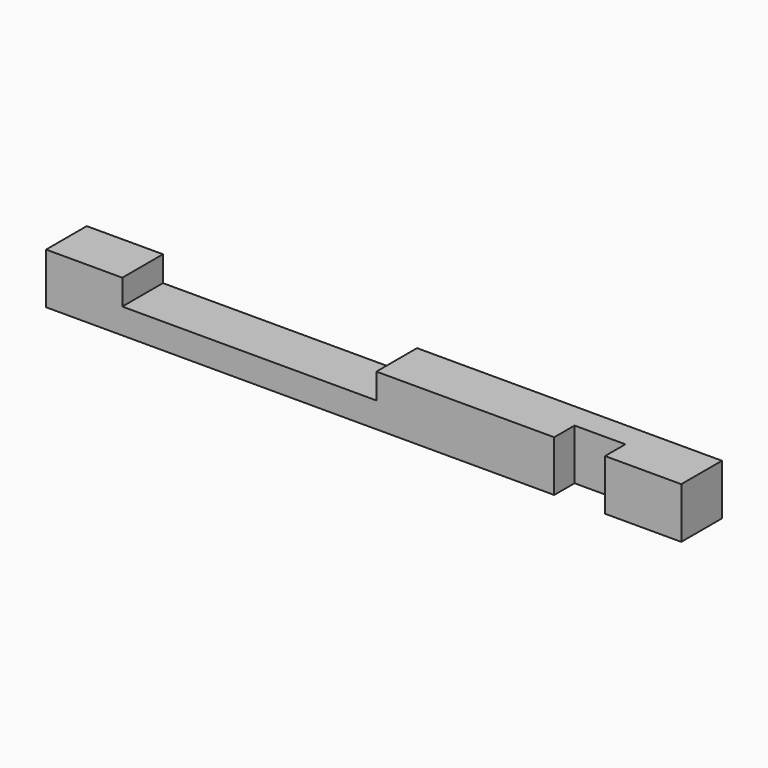
from build123d import *

# Parameters (mm, degrees)
F0_W     = 250
F0_H     = 20
F1_DEPTH = 20
F2_W     = 20
F2_H     = 20
F3_DEPTH = 10
F4_W     = 100
F4_H     = 20
F5_DEPTH = 10


with BuildPart() as f1:
    # F0 (on Top) → F1 (new body)
    with BuildSketch(Plane.XY):
        Rectangle(F0_W, F0_H)
    extrude(amount=F1_DEPTH)

    # F2 (on face) → F3 (cut)
    with BuildSketch(Plane.XZ.offset(10)):
        with Locations((85, 10)):
            Rectangle(F2_W, F2_H)
    extrude(amount=-F3_DEPTH, mode=Mode.SUBTRACT)

    # F4 (on face) → F5 (cut)
    with BuildSketch(Plane.XY.offset(20)):
        with Locations((-45, 0)):
            Rectangle(F4_W, F4_H)
    extrude(amount=-F5_DEPTH, mode=Mode.SUBTRACT)


solid = f1.part
